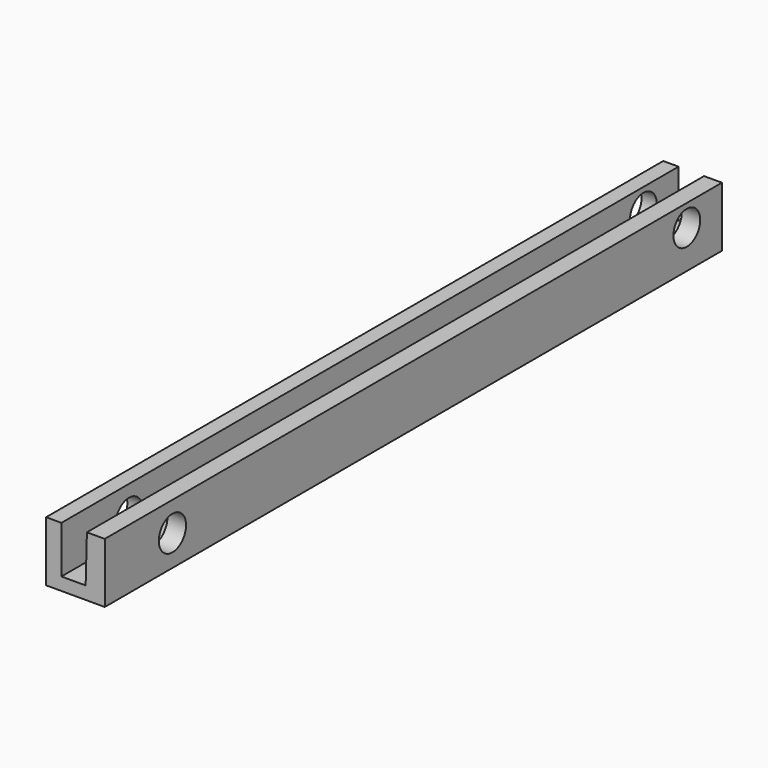
from build123d import *

# Parameters (mm, degrees)
F1_DEPTH = 88.9
F2_R     = 1.92798
F3_DEPTH = 25.4
F4_R     = 1.963554
F5_DEPTH = 25.4


with BuildPart() as f1:
    # F0 (on Front) → F1 (new body)
    with BuildSketch(Plane.XZ):
        Polygon((-37.788483, 47.28636), (-39.553114, 47.28636), (-39.553114, 40.374884), (-36.170904, 40.374884), (-32.788693, 40.374884), (-32.788693, 47.28636), (-34.84743, 47.28636), (-34.994483, 41.84541), (-37.788483, 41.84541), align=None)
    extrude(amount=F1_DEPTH)

    # F2 (on face) → F3 (cut)
    with BuildSketch(Plane(origin=(-39.553114, 0, 0), x_dir=(0, -1, 0), z_dir=(-1, 0, 0))):
        with Locations((5.058136, 44.765752)):
            Circle(F2_R)
    extrude(amount=-F3_DEPTH, mode=Mode.SUBTRACT)

    # F4 (on face) → F5 (cut)
    with BuildSketch(Plane(origin=(-39.553114, 0, 0), x_dir=(0, -1, 0), z_dir=(-1, 0, 0))):
        with Locations((79.155207, 43.916043)):
            Circle(F4_R)
    extrude(amount=-F5_DEPTH, mode=Mode.SUBTRACT)


solid = f1.part
